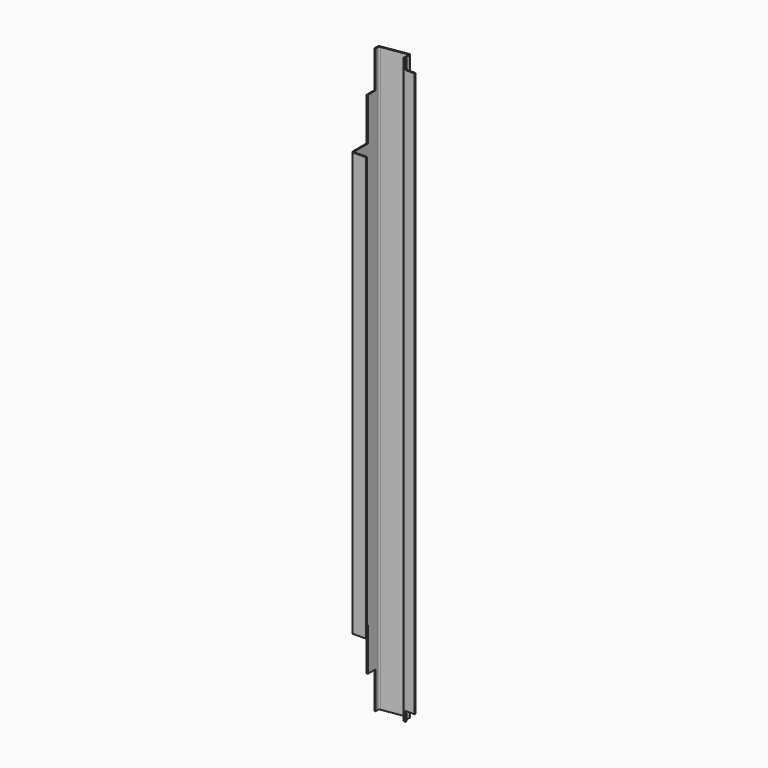
from build123d import *

# Parameters (mm, degrees)
F1_DEPTH = 2420
F2_W     = 6
F2_H     = 153
F2_W_2   = 72
F2_H_2   = 178
F3_DEPTH = 165.001
F4_W     = 37.5
F4_H     = 37
F4_H_2   = 3
F4_H_3   = 40
F5_DEPTH = 125.501


with BuildPart() as f1:
    # F0 (on Top) → F1 (new body)
    with BuildSketch(Plane.XY):
        with BuildLine():
            Line((-54, 0), (0, 0))
            Line((0, 0), (0, 4.5))
            Line((0, 4.5), (-49.5, 4.5))
            ThreePointArc((-49.5, 4.5), (-53.7426406871, 6.2573593129), (-55.5, 10.5))
            Line((-55.5, 10.5), (-55.5, 130.6311523413))
            ThreePointArc((-55.5, 130.6311523413), (-54.060089269, 134.5305863848), (-50.4314713804, 136.5584081202))
            Line((-50.4314713804, 136.5584081202), (48.5685286196, 152.1163104777))
            ThreePointArc((48.5685286196, 152.1163104777), (53.3994340434, 150.7491439679), (55.5, 146.1890546989))
            Line((55.5, 146.1890546989), (55.5, 127))
            ThreePointArc((55.5, 127), (57.2573593129, 122.7573593129), (61.5, 121))
            Line((61.5, 121), (105, 121))
            Line((105, 121), (105, 125.5))
            Line((105, 125.5), (66, 125.5))
            ThreePointArc((66, 125.5), (61.7573593129, 127.2573593129), (60, 131.5))
            Line((60, 131.5), (60, 151.4514598279))
            ThreePointArc((60, 151.4514598279), (57.8994340434, 156.0115490969), (53.0685286196, 157.3787156068))
            Line((53.0685286196, 157.3787156068), (-54.9314713804, 140.4064584894))
            ThreePointArc((-54.9314713804, 140.4064584894), (-58.560089269, 138.378636754), (-60, 134.4792027106))
            Line((-60, 134.4792027106), (-60, 6))
            ThreePointArc((-60, 6), (-58.2426406871, 1.7573593129), (-54, 0))
        make_face()
    extrude(amount=F1_DEPTH)

    # F2 (on face) → F3 (cut, through all)
    with BuildSketch(Plane(origin=(-60, 0, 0), x_dir=(0, -1, 0), z_dir=(-1, 0, 0))):
        Polygon((-117.5, 153), (-117.5, 0), (-6, 0), (-6, 153), (-78, 153), align=None)
        with Locations((-3, 76.5)):
            Rectangle(F2_W, F2_H)
        with Locations((-42, 242)):
            Rectangle(F2_W_2, F2_H_2)
        with Locations((-3, 242)):
            Rectangle(F2_W, F2_H_2)
        with Locations((-42, 2178)):
            Rectangle(F2_W_2, F2_H_2)
        with Locations((-3, 2178)):
            Rectangle(F2_W, F2_H_2)
        Polygon((-6, 2420), (-117.5, 2420), (-117.5, 2267), (-78, 2267), (-6, 2267), align=None)
        with Locations((-3, 2343.5)):
            Rectangle(F2_W, F2_H)
    extrude(amount=-F3_DEPTH, mode=Mode.SUBTRACT)

    # F4 (on face) → F5 (cut, through all)
    with BuildSketch(Plane(origin=(0, 125.5, 0), x_dir=(-1, 0, 0), z_dir=(0, 1, 0))):
        with Locations((-86.25, 2398.5)):
            Rectangle(F4_W, F4_H)
        with Locations((-86.25, 2398.5)):
            Rectangle(F4_W, F4_H)
        with Locations((-86.25, 2418.5)):
            Rectangle(F4_W, F4_H_2)
        with Locations((-86.25, 20)):
            Rectangle(F4_W, F4_H_3)
    extrude(amount=-F5_DEPTH, mode=Mode.SUBTRACT)


solid = f1.part
